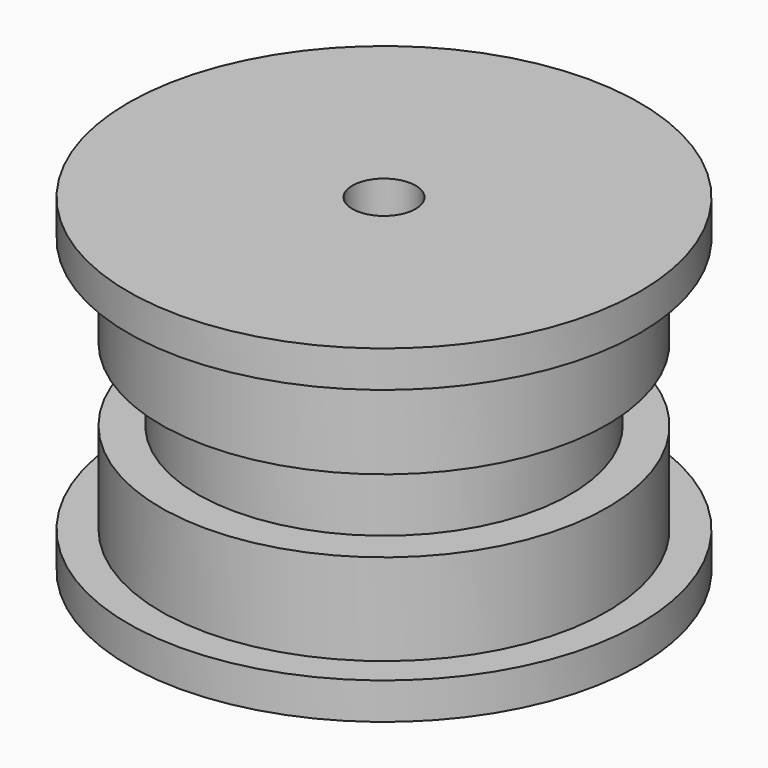
from build123d import *

# Parameters (mm, degrees)
F3_D = 5.5


with BuildPart() as f1:
    # F0 (on Right) → F1 (revolve)
    with BuildSketch(Plane.YZ):
        Polygon((0, -28.575), (0, 0), (-22.225, 0), (-22.225, -3.175), (-19.379501, -3.175), (-19.379501, -11.1125), (-16.204501, -11.1125), (-16.204501, -17.4625), (-19.379501, -17.4625), (-19.379501, -25.4), (-22.225, -25.4), (-22.225, -28.575), align=None)
    revolve(axis=Axis((0, 0, -14.2875), (0, 0, 1)))

    # F3 (through all)
    with Locations(Plane(origin=(0, 0, -28.575), x_dir=(1, 0, 0), z_dir=(0, 0, -1))):
        with Locations((0, 0)):
            Hole(F3_D / 2)


solid = f1.part
